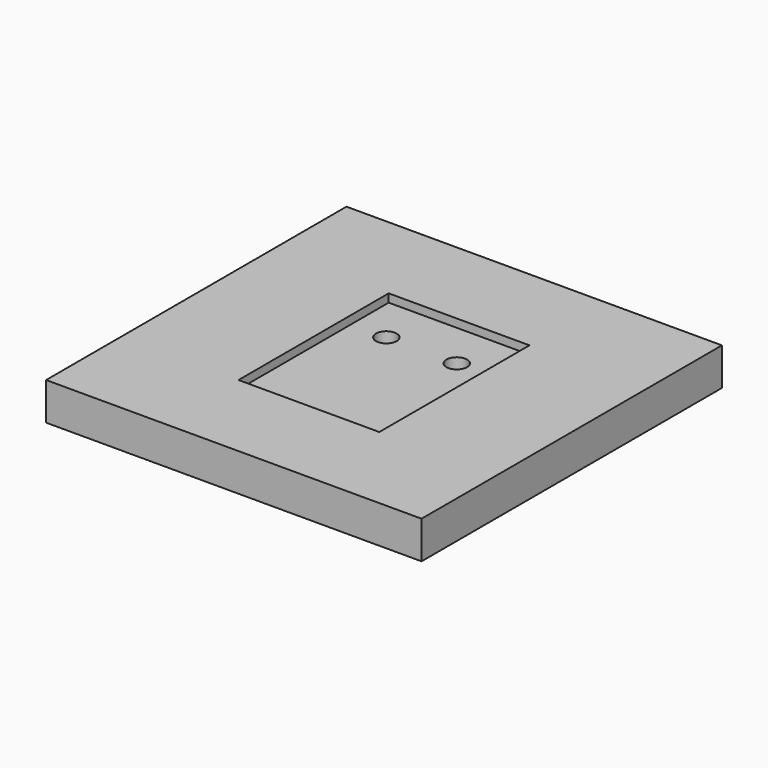
from build123d import *

# Parameters (mm, degrees)
F0_W     = 50.8
F0_H     = 50.8
F0_W_2   = 19.05
F0_H_2   = 25.4
F1_DEPTH = 5.08
F0_W_3   = 4.4
F0_H_3   = 7.4
F0_R     = 1.397
F2_DEPTH = 3.96875


with BuildPart() as f1:
    # F0 (on Top) → F1 (new body)
    with BuildSketch(Plane.XY):
        Rectangle(F0_W, F0_H)
        Rectangle(F0_W_2, F0_H_2, mode=Mode.SUBTRACT)
    extrude(amount=F1_DEPTH)

    # F0 (on Top) → F2 (join)
    with BuildSketch(Plane.XY):
        Rectangle(F0_W_2, F0_H_2)
        Rectangle(F0_W_3, F0_H_3, mode=Mode.SUBTRACT)
        with Locations((-4.7625, 6.35)):
            Circle(F0_R, mode=Mode.SUBTRACT)
        with Locations((4.7625, 6.35)):
            Circle(F0_R, mode=Mode.SUBTRACT)
        Rectangle(F0_W_3, F0_H_3)
    extrude(amount=F2_DEPTH)


solid = f1.part
